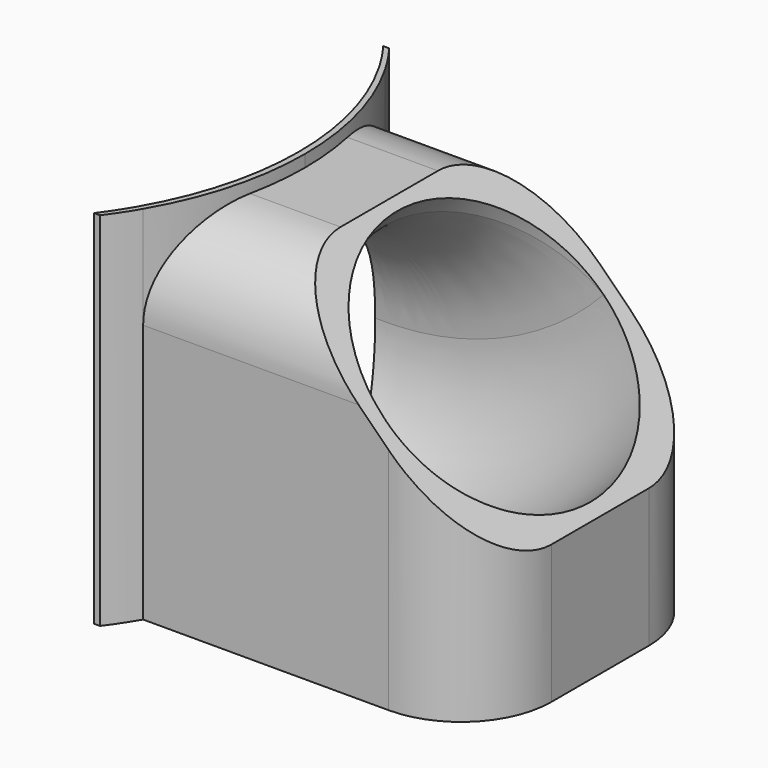
from build123d import *

# Parameters (mm, degrees)
F1_DEPTH  = 60
F2_DEPTH  = 58
F5_DEPTH  = 60
F11_DEPTH = 25
F12_R     = 15


with BuildPart() as f1:
    # F0 (on Top) → F1 (new body)
    with BuildSketch(Plane.XY):
        with BuildLine():
            ThreePointArc((11, -30), (9.2813061641, -17.0032513647), (4.2433809964, -4.9))
            Line((4.2433809964, -4.9), (3.2433809964, -4.9))
            ThreePointArc((3.2433809964, -4.9), (8.2813061641, -17.0032513647), (10, -30))
            Line((10, -30), (11, -30))
        make_face()
        with BuildLine():
            Line((1, 0), (0, 0))
            ThreePointArc((0, 0), (0.5058928967, -0.6866474002), (1, -1.3818239575))
            Line((1, -1.3818239575), (1, 0))
        make_face()
        with BuildLine():
            Line((1, 0), (0, 0))
            ThreePointArc((0, 0), (0.5058928967, -0.6866474002), (1, -1.3818239575))
            Line((1, -1.3818239575), (1, 0))
        make_face()
        with BuildLine():
            ThreePointArc((4.2433809964, -55.1), (9.2813061641, -42.9967486353), (11, -30))
            Line((11, -30), (10, -30))
            ThreePointArc((10, -30), (8.2813061641, -42.9967486353), (3.2433809964, -55.1))
            Line((3.2433809964, -55.1), (4.2433809964, -55.1))
        make_face()
        with BuildLine():
            ThreePointArc((1, -60), (2.6937359795, -57.5976879479), (4.2433809964, -55.1))
            Line((4.2433809964, -55.1), (3.2433809964, -55.1))
            ThreePointArc((3.2433809964, -55.1), (2.1584060549, -56.8824998634), (1, -58.6181760425))
            Line((1, -58.6181760425), (1, -60))
        make_face()
        with BuildLine():
            ThreePointArc((1, -58.6181760425), (0.5058928967, -59.3133525998), (0, -60))
            Line((0, -60), (1, -60))
            Line((1, -60), (1, -58.6181760425))
        make_face()
        with BuildLine():
            ThreePointArc((4.2433809964, -4.9), (2.6937359795, -2.4023120521), (1, 0))
            Line((1, 0), (1, -1.3818239575))
            ThreePointArc((1, -1.3818239575), (2.1584060549, -3.1175001366), (3.2433809964, -4.9))
            Line((3.2433809964, -4.9), (4.2433809964, -4.9))
        make_face()
    extrude(amount=F1_DEPTH)

    # F0 (on Top) → F2 (join)
    with BuildSketch(Plane.XY):
        with BuildLine():
            Line((60, -4.9), (4.2433809964, -4.9))
            ThreePointArc((4.2433809964, -4.9), (9.2813061641, -17.0032513647), (11, -30))
            Line((11, -30), (60, -30))
            Line((60, -30), (60, -4.9))
        make_face()
        with BuildLine():
            Line((60, -30), (11, -30))
            ThreePointArc((11, -30), (9.2813061641, -42.9967486353), (4.2433809964, -55.1))
            Line((4.2433809964, -55.1), (60, -55.1))
            Line((60, -55.1), (60, -30))
        make_face()
    extrude(amount=F2_DEPTH)

    # F4 (on face) → F5 (cut)
    with BuildSketch(Plane.XZ.offset(55.1)):
        Polygon((60, 58), (25, 58), (60, 23), align=None)
    extrude(amount=-F5_DEPTH, mode=Mode.SUBTRACT)

    # F10: sweep along a path in F9
    with BuildLine(Plane.XZ.offset(30)) as f10_path:
        ThreePointArc((0, 25.1), (23.0896284171, 27.7230233964), (42.4998142724, 40.5001857276))
    # F7 (on Right) → F10 (sweep, cut)
    with BuildSketch(Plane.YZ):
        with BuildLine():
            Line((-30, 25.1), (-30, 2.5))
            ThreePointArc((-30, 2.5), (-14.0193867452, 9.1193867452), (-7.4, 25.1))
            Line((-7.4, 25.1), (-30, 25.1))
        make_face()
        with BuildLine():
            ThreePointArc((-7.4, 25.1), (-45.9806132548, 41.0806132548), (-30, 2.5))
            Line((-30, 2.5), (-30, 25.1))
            Line((-30, 25.1), (-7.4, 25.1))
        make_face()
    sweep(path=f10_path.line, mode=Mode.SUBTRACT)

    # F11 (cut): a face of the model
    f11_faces = [f1.faces().sort_by_distance(p)[0] for p in [
        (34.7646818914, -30, 46.1719723121),
    ]]
    extrude(f11_faces, amount=-F11_DEPTH, mode=Mode.SUBTRACT)

    # F12
    f12_edges = [f1.edges().sort_by_distance(p)[0] for p in [
        (14.62169, -55.1, 58),
        (14.62169, -4.9, 58),
        (60, -55.1, 11.5),
        (60, -4.9, 11.5),
    ]]
    fillet(f12_edges, radius=F12_R)


solid = f1.part
